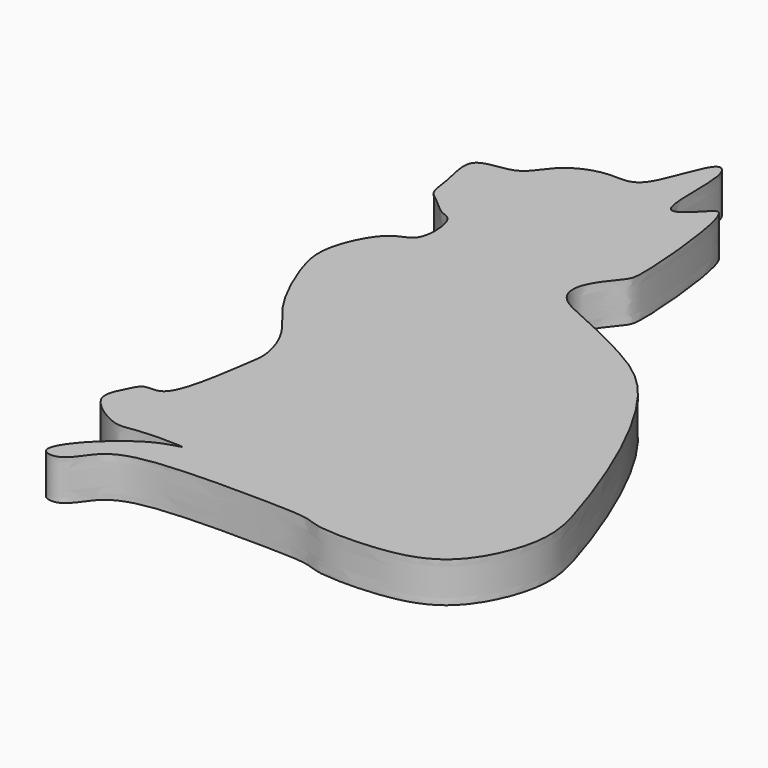
from build123d import *

# Parameters (mm, degrees)
F1_DEPTH = 3.5


with BuildPart() as f1:
    # F0 (on Top) → F1 (new body)
    with BuildSketch(Plane.XY):
        with BuildLine():
            add(Edge.make_bspline(
                [(-34.1992080212, 57.1061968803), (-33.3642851639, 56.1823516583), (-32.4078288864, 46.4614953202), (-33.0833580012, 45.5732444431), (-35.1200553902, 43.1510717383), (-34.8677487589, 40.6568521235), (-31.2444421826, 39.2319469853), (-26.6859888958, 37.0096112258), (-22.2677557358, 34.2430144506), (-17.6688813883, 26.3691319905), (-14.39868697, 17.3037761676), (-13.0968751825, 12.2203699474), (-15.9143302126, 5.628892429), (-21.0875912385, 4.0974354464), (-26.6722790533, 4.1350983307), (-28.0143589694, 4.9285498911), (-32.2080372737, 5.0190880792), (-40.047402618, 5.080025663), (-44.9975841049, 4.1164986599), (-46.2027464118, 0.9613419086), (-49.5871543138, 1.4116658442), (-43.875650646, 7.3750124796), (-39.7043266917, 7.7227627719), (-45.1568347469, 7.8440485631), (-46.7416147618, 7.0994818262), (-50.6395569599, 9.6814069498), (-49.4312363899, 11.7511258937), (-48.8274058448, 13.311181165), (-46.4328461197, 12.4463259263), (-45.4975316614, 19.5720255266), (-44.989986388, 21.7386570008), (-46.1411789449, 25.1080355339), (-48.962565441, 27.8505196616), (-51.3312763102, 33.0811414468), (-52.0730111047, 36.5749871731), (-49.8279134961, 41.0915031309), (-47.3243745272, 41.0953033315), (-47.5669636611, 45.2114002995), (-48.959476677, 45.3441966215), (-50.1403993142, 46.6205075639), (-51.4229491923, 47.3548841368), (-51.3971269457, 49.362586871), (-52.5957466521, 52.8712081606), (-49.6774374778, 53.0592011642), (-48.0751513435, 53.5888813829), (-46.8363409598, 55.958858163), (-43.5592579662, 57.1964972166), (-40.4643905556, 56.3185350568), (-39.0014439342, 63.2560063617), (-37.0665335077, 61.5063660932), (-38.0297347156, 53.7593632015), (-35.162257374, 56.5798648447), (-34.4702750854, 57.4061335871), (-34.1992080212, 57.1061968803)],
                knots=[0, 0, 0, 0, 0.0341307051, 0.0473082445, 0.0651210371, 0.0803016114, 0.1003485694, 0.1244575108, 0.1483175937, 0.1803103416, 0.2134469286, 0.2375809748, 0.2641940963, 0.2887570324, 0.3131475267, 0.3258825956, 0.3468627676, 0.3774193976, 0.4005626382, 0.4185578337, 0.4312006137, 0.4594253267, 0.4753923429, 0.4954597066, 0.5111848322, 0.5316157845, 0.5465946598, 0.5591427724, 0.5721333969, 0.5986662973, 0.6158172217, 0.6345339072, 0.6559262102, 0.6810339212, 0.7013904853, 0.7237421914, 0.7385174095, 0.7574133329, 0.7689024775, 0.7826387942, 0.7948450806, 0.8098242133, 0.8282564278, 0.8438504968, 0.8575863203, 0.8742879651, 0.8936242073, 0.9106787743, 0.9354564216, 0.9471210525, 0.9732212178, 0.988919084, 1, 1, 1, 1], degree=3))
        make_face()
    extrude(amount=F1_DEPTH)


solid = f1.part
